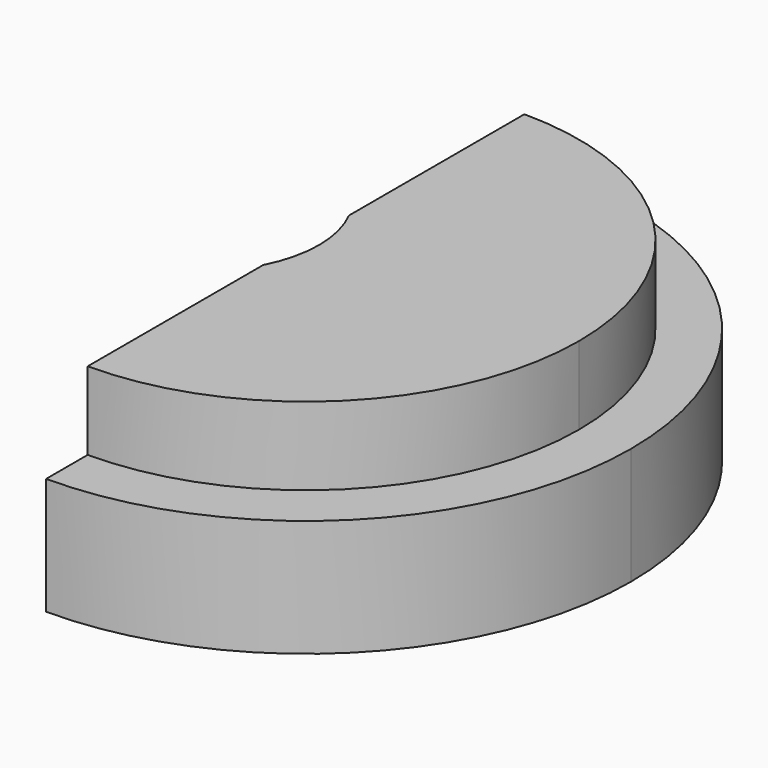
from build123d import *

# Parameters (mm, degrees)
F1_DEPTH = 7.5
F2_DEPTH = 4.5


with BuildPart() as f1:
    # F0 (on Top) → F1 (new body)
    with BuildSketch(Plane.XY):
        with BuildLine():
            ThreePointArc((0, -10.5), (7.4246212025, -7.4246212025), (10.5, 0))
            ThreePointArc((10.5, 0), (7.4246212025, 7.4246212025), (0, 10.5))
            Line((0, 10.5), (0, 2.0615528128))
            ThreePointArc((0, 2.0615528128), (0.3732139211, 1.0606601718), (0.5, 0))
            ThreePointArc((0.5, 0), (0.3732139211, -1.0606601718), (0, -2.0615528128))
            Line((0, -2.0615528128), (0, -10.5))
        make_face()
    extrude(amount=F1_DEPTH)

    # F0 (on Top) → F2 (join)
    with BuildSketch(Plane.XY):
        with BuildLine():
            ThreePointArc((0, 10.5), (7.4246212025, 7.4246212025), (10.5, 0))
            ThreePointArc((10.5, 0), (7.4246212025, -7.4246212025), (0, -10.5))
            Line((0, -10.5), (0, -12.5))
            ThreePointArc((0, -12.5), (8.8388347648, -8.8388347648), (12.5, 0))
            ThreePointArc((12.5, 0), (8.8388347648, 8.8388347648), (0, 12.5))
            Line((0, 12.5), (0, 10.5))
        make_face()
    extrude(amount=F2_DEPTH)


solid = f1.part
